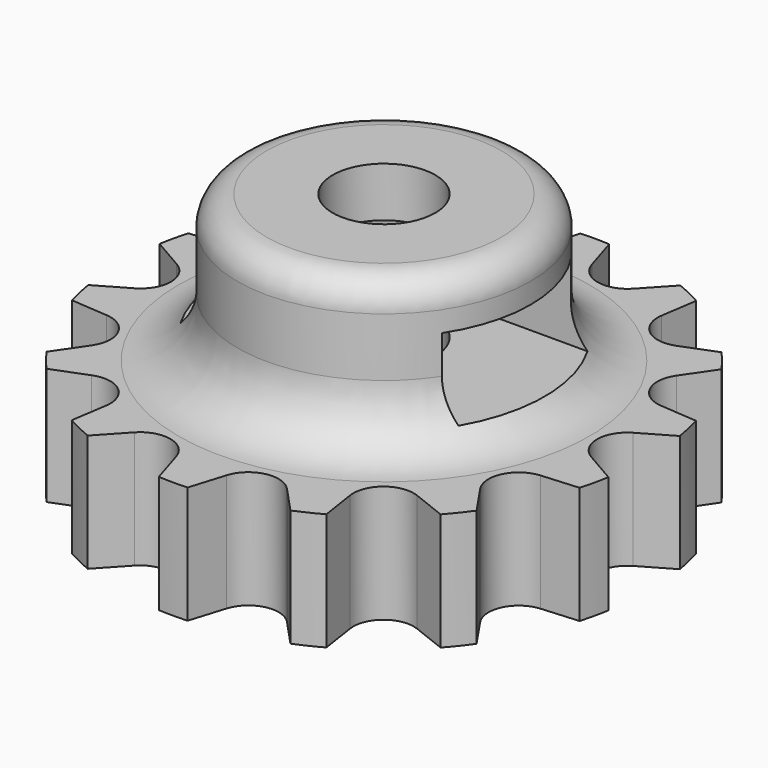
from build123d import *

# Parameters (mm, degrees)
F3_R     = 1.75
F4_DEPTH = 12.5
F6_R     = 2
F8_DEPTH = 10
F2_W     = 25.478227
F2_H     = 5.5
F9_DEPTH = 1.3
F10_R    = 1


with BuildPart() as f1:
    # F0 (on Front) → F1 (revolve)
    with BuildSketch(Plane.XZ):
        Polygon((-9, -6), (0, -6), (0, 3), (-5, 3), (-5, -2), (-9, -2), align=None)
    revolve(axis=Axis((0, 0, -1.5), (0, 0, 1)))


with BuildPart() as f4:
    # F3 (on Top) → F4 (new body, symmetric)
    with BuildSketch(Plane.XY):
        Circle(F3_R)
    extrude(amount=F4_DEPTH, both=True)


with BuildPart() as f1_1:
    add(f1.part)

    # F5: cut F4
    add(f4.part, mode=Mode.SUBTRACT)

    # F6
    f6_edges = [f1_1.edges().sort_by_distance(p)[0] for p in [
        (5, 0, -2),
    ]]
    fillet(f6_edges, radius=F6_R)

    # F7 (on Top) → F8 (cut)
    with BuildSketch(Plane.XY):
        with BuildLine():
            ThreePointArc((-7.782135, -0.892736), (-7.266714, 0), (-7.782135, 0.892736))
            Line((-7.782135, 0.892736), (-10.312837, 2.353838))
            Line((-10.312837, 2.353838), (-10.499112, 2.339878))
            Line((-10.499112, 2.339878), (-10.499112, -2.339878))
            Line((-10.499112, -2.339878), (-10.312837, -2.353838))
            Line((-10.312837, -2.353838), (-7.782135, -0.892736))
        make_face()
        with BuildLine():
            Line((-10.474608, 2.447236), (-10.312837, 2.353838))
            Line((-10.312837, 2.353838), (-7.398805, 2.572214))
            ThreePointArc((-7.398805, 2.572214), (-6.547083, 3.152909), (-6.624118, 4.180869))
            Line((-6.624118, 4.180869), (-8.270253, 6.595307))
            Line((-8.270253, 6.595307), (-8.444138, 6.663552))
            Line((-8.444138, 6.663552), (-10.474608, 2.447236))
        make_face()
        Polygon((-10.499112, 2.396354), (-10.474608, 2.447236), (-10.499112, 2.461384), align=None)
        Polygon((-10.527328, 2.337764), (-10.499112, 2.339878), (-10.499112, 2.396354), align=None)
        with BuildLine():
            Line((-7.398805, -2.572214), (-10.312837, -2.353838))
            Line((-10.312837, -2.353838), (-10.474608, -2.447236))
            Line((-10.474608, -2.447236), (-8.444138, -6.663552))
            Line((-8.444138, -6.663552), (-8.270253, -6.595307))
            Line((-8.270253, -6.595307), (-6.624118, -4.180869))
            ThreePointArc((-6.624118, -4.180869), (-6.547083, -3.152909), (-7.398805, -2.572214))
        make_face()
        Polygon((-8.470477, 6.673889), (-8.444138, 6.663552), (-8.419634, 6.714434), align=None)
        Polygon((-10.499112, -2.396354), (-10.499112, -2.339878), (-10.527328, -2.337764), align=None)
        Polygon((-10.499112, -2.461384), (-10.474608, -2.447236), (-10.499112, -2.396354), align=None)
        with BuildLine():
            Line((-8.37548, 6.749646), (-8.270253, 6.595307))
            Line((-8.270253, 6.595307), (-5.550051, 5.527706))
            ThreePointArc((-5.550051, 5.527706), (-4.530722, 5.681345), (-4.154113, 6.64093))
            Line((-4.154113, 6.64093), (-4.589644, 9.530495))
            Line((-4.589644, 9.530495), (-4.716699, 9.667427))
            Line((-4.716699, 9.667427), (-8.37548, 6.749646))
        make_face()
        Polygon((-8.391419, 6.773024), (-8.419634, 6.714434), (-8.37548, 6.749646), align=None)
        Polygon((-8.419634, -6.714434), (-8.444138, -6.663552), (-8.470477, -6.673889), align=None)
        Polygon((-8.37548, -6.749646), (-8.419634, -6.714434), (-8.391419, -6.773024), align=None)
        with BuildLine():
            Line((-5.550051, -5.527706), (-8.270253, -6.595307))
            Line((-8.270253, -6.595307), (-8.37548, -6.749646))
            Line((-8.37548, -6.749646), (-4.716699, -9.667427))
            Line((-4.716699, -9.667427), (-4.589644, -9.530495))
            Line((-4.589644, -9.530495), (-4.154113, -6.64093))
            ThreePointArc((-4.154113, -6.64093), (-4.530722, -5.681345), (-5.550051, -5.527706))
        make_face()
        Polygon((-4.735944, 9.688168), (-4.716699, 9.667427), (-4.672544, 9.702639), align=None)
        with BuildLine():
            Line((-4.617485, 9.715206), (-4.589644, 9.530495))
            Line((-4.589644, 9.530495), (-2.602041, 7.388368))
            ThreePointArc((-2.602041, 7.388368), (-1.616996, 7.084522), (-0.861334, 7.785673))
            Line((-0.861334, 7.785673), (0, 10.578051))
            Line((0, 10.578051), (-0.055059, 10.756549))
            Line((-0.055059, 10.756549), (-4.617485, 9.715206))
        make_face()
        Polygon((-4.621702, 9.743184), (-4.672544, 9.702639), (-4.617485, 9.715206), align=None)
        Polygon((-4.672544, -9.702639), (-4.716699, -9.667427), (-4.735944, -9.688168), align=None)
        Polygon((-4.617485, -9.715206), (-4.672544, -9.702639), (-4.621702, -9.743184), align=None)
        with BuildLine():
            Line((-2.602041, -7.388368), (-4.589644, -9.530495))
            Line((-4.589644, -9.530495), (-4.617485, -9.715206))
            Line((-4.617485, -9.715206), (-0.055059, -10.756549))
            Line((-0.055059, -10.756549), (0, -10.578051))
            Line((0, -10.578051), (-0.861334, -7.785673))
            ThreePointArc((-0.861334, -7.785673), (-1.616996, -7.084522), (-2.602041, -7.388368))
        make_face()
        Polygon((-0.063399, 10.783587), (-0.055059, 10.756549), (0, 10.769116), align=None)
        with BuildLine():
            Line((0.055059, 10.756549), (0, 10.578051))
            Line((0, 10.578051), (0.861334, 7.785673))
            ThreePointArc((0.861334, 7.785673), (1.616996, 7.084522), (2.602041, 7.388368))
            Line((2.602041, 7.388368), (4.589644, 9.530495))
            Line((4.589644, 9.530495), (4.617485, 9.715206))
            Line((4.617485, 9.715206), (0.055059, 10.756549))
        make_face()
        Polygon((0.063399, 10.783587), (0, 10.769116), (0.055059, 10.756549), align=None)
        Polygon((0, -10.769116), (-0.055059, -10.756549), (-0.063399, -10.783587), align=None)
        Polygon((0.055059, -10.756549), (0, -10.769116), (0.063399, -10.783587), align=None)
        with BuildLine():
            Line((0.861334, -7.785673), (0, -10.578051))
            Line((0, -10.578051), (0.055059, -10.756549))
            Line((0.055059, -10.756549), (4.617485, -9.715206))
            Line((4.617485, -9.715206), (4.589644, -9.530495))
            Line((4.589644, -9.530495), (2.602041, -7.388368))
            ThreePointArc((2.602041, -7.388368), (1.616996, -7.084522), (0.861334, -7.785673))
        make_face()
        Polygon((4.621702, 9.743184), (4.617485, 9.715206), (4.672544, 9.702639), align=None)
        with BuildLine():
            Line((4.716699, 9.667427), (4.589644, 9.530495))
            Line((4.589644, 9.530495), (4.154113, 6.64093))
            ThreePointArc((4.154113, 6.64093), (4.530722, 5.681345), (5.550051, 5.527706))
            Line((5.550051, 5.527706), (8.270253, 6.595307))
            Line((8.270253, 6.595307), (8.37548, 6.749646))
            Line((8.37548, 6.749646), (4.716699, 9.667427))
        make_face()
        Polygon((4.735944, 9.688168), (4.672544, 9.702639), (4.716699, 9.667427), align=None)
        Polygon((4.672544, -9.702639), (4.617485, -9.715206), (4.621702, -9.743184), align=None)
        Polygon((4.716699, -9.667427), (4.672544, -9.702639), (4.735944, -9.688168), align=None)
        with BuildLine():
            Line((4.154113, -6.64093), (4.589644, -9.530495))
            Line((4.589644, -9.530495), (4.716699, -9.667427))
            Line((4.716699, -9.667427), (8.37548, -6.749646))
            Line((8.37548, -6.749646), (8.270253, -6.595307))
            Line((8.270253, -6.595307), (5.550051, -5.527706))
            ThreePointArc((5.550051, -5.527706), (4.530722, -5.681345), (4.154113, -6.64093))
        make_face()
        Polygon((8.391419, 6.773024), (8.37548, 6.749646), (8.419634, 6.714434), align=None)
        with BuildLine():
            Line((8.444138, 6.663552), (8.270253, 6.595307))
            Line((8.270253, 6.595307), (6.624118, 4.180869))
            ThreePointArc((6.624118, 4.180869), (6.547083, 3.152909), (7.398805, 2.572214))
            Line((7.398805, 2.572214), (10.312837, 2.353838))
            Line((10.312837, 2.353838), (10.474608, 2.447236))
            Line((10.474608, 2.447236), (8.444138, 6.663552))
        make_face()
        Polygon((8.470477, 6.673889), (8.419634, 6.714434), (8.444138, 6.663552), align=None)
        Polygon((8.419634, -6.714434), (8.37548, -6.749646), (8.391419, -6.773024), align=None)
        Polygon((8.444138, -6.663552), (8.419634, -6.714434), (8.470477, -6.673889), align=None)
        with BuildLine():
            Line((6.624118, -4.180869), (8.270253, -6.595307))
            Line((8.270253, -6.595307), (8.444138, -6.663552))
            Line((8.444138, -6.663552), (10.474608, -2.447236))
            Line((10.474608, -2.447236), (10.312837, -2.353838))
            Line((10.312837, -2.353838), (7.398805, -2.572214))
            ThreePointArc((7.398805, -2.572214), (6.547083, -3.152909), (6.624118, -4.180869))
        make_face()
        Polygon((10.499112, 2.461384), (10.474608, 2.447236), (10.499112, 2.396354), align=None)
        with BuildLine():
            Line((10.499112, 2.339878), (10.312837, 2.353838))
            Line((10.312837, 2.353838), (7.782135, 0.892736))
            ThreePointArc((7.782135, 0.892736), (7.266714, 0), (7.782135, -0.892736))
            Line((7.782135, -0.892736), (10.312837, -2.353838))
            Line((10.312837, -2.353838), (10.499112, -2.339878))
            Line((10.499112, -2.339878), (10.499112, 2.339878))
        make_face()
        Polygon((10.527328, 2.337764), (10.499112, 2.396354), (10.499112, 2.339878), align=None)
        Polygon((10.499112, -2.396354), (10.474608, -2.447236), (10.499112, -2.461384), align=None)
        Polygon((10.499112, -2.339878), (10.499112, -2.396354), (10.527328, -2.337764), align=None)
    extrude(amount=-F8_DEPTH, mode=Mode.SUBTRACT)

    # F2 (on Top) → F9 (cut, symmetric)
    with BuildSketch(Plane.XY):
        with Locations((1.864194, 0)):
            Rectangle(F2_W, F2_H)
    extrude(amount=F9_DEPTH, both=True, mode=Mode.SUBTRACT)

    # F10
    f10_edges = [f1_1.edges().sort_by_distance(p)[0] for p in [
        (5, 0, 3),
    ]]
    fillet(f10_edges, radius=F10_R)


solid = f1_1.part
